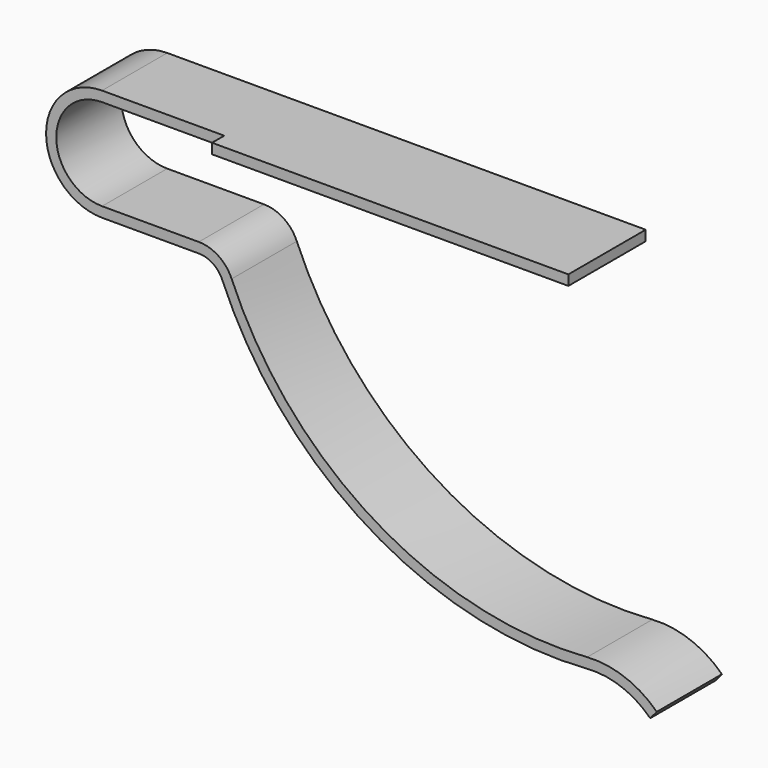
from build123d import *

# Parameters (mm, degrees)
F1_DEPTH = 16
F2_W     = 70
F2_H     = 3
F3_DEPTH = 2


with BuildPart() as f1:
    # F0 (on Front) → F1 (new body)
    with BuildSketch(Plane.XZ):
        with BuildLine():
            Line((94, 11), (0, 11))
            ThreePointArc((0, 11), (-11, 0), (0, -11))
            Line((0, -11), (19, -11))
            ThreePointArc((19, -11), (21.768112, -11.836161), (23.61039, -14.064979))
            ThreePointArc((23.61039, -14.064979), (52.373093, -47.586467), (95.296574, -58.00559))
            ThreePointArc((95.296574, -58.00559), (101.981922, -58.918984), (107.67752, -62.536763))
            Line((107.67752, -62.536763), (108.967018, -61))
            ThreePointArc((108.967018, -61), (102.665945, -57.039589), (95.296574, -56))
            ThreePointArc((95.296574, -56), (53.4812, -45.919824), (25.454545, -13.29097))
            ThreePointArc((25.454545, -13.29097), (22.875357, -10.170626), (19, -9))
            Line((19, -9), (0, -9))
            ThreePointArc((0, -9), (-9, 0), (0, 9))
            Line((0, 9), (94, 9))
            Line((94, 9), (94, 11))
        make_face()
    extrude(amount=-F1_DEPTH)

    # F2 (on face) → F3 (join)
    with BuildSketch(Plane.XY.offset(11)):
        with Locations((59, -1.5)):
            Rectangle(F2_W, F2_H)
    extrude(amount=-F3_DEPTH)


solid = f1.part
